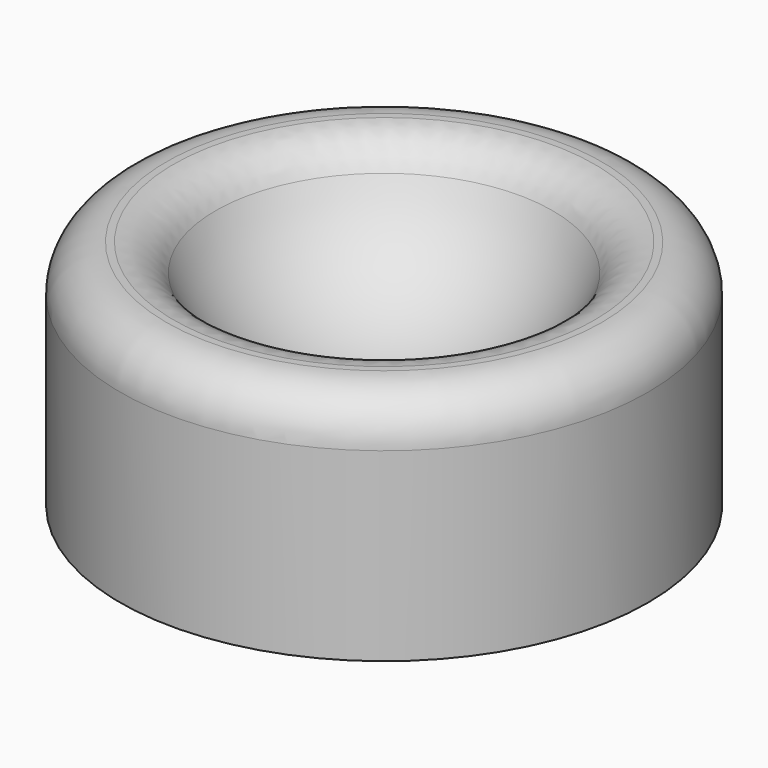
from build123d import *

# Parameters (mm, degrees)
F0_R     = 57
F2_DEPTH = 50
F4_R     = 10


with BuildPart() as f2:
    # F0 (on Top) → F2 (new body)
    with BuildSketch(Plane.XY):
        Circle(F0_R)
    extrude(amount=F2_DEPTH)

    # F1 (on Front) → F3 (revolve, cut)
    with BuildSketch(Plane.XZ):
        with BuildLine():
            Line((0, 100.7613007724), (0, 20.7613007724))
            ThreePointArc((0, 20.7613007724), (40, 60.7613007724), (0, 100.7613007724))
        make_face()
    revolve(axis=Axis((0, 0, 40.7613007724), (0, 0, -1)), mode=Mode.SUBTRACT)

    # F4
    f4_edges = [f2.edges().sort_by_distance(p)[0] for p in [
        (-57, 0, 50),
        (-38.525244, 0, 50),
    ]]
    fillet(f4_edges, radius=F4_R)


solid = f2.part
